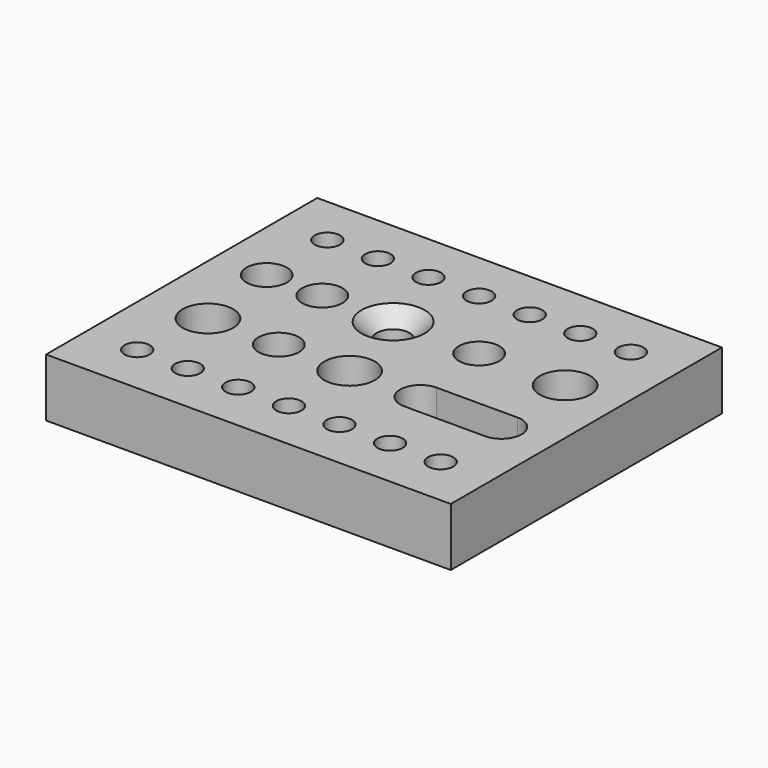
from build123d import *

# Parameters (mm, degrees)
F0_W     = 80
F0_H     = 67
F0_R     = 2.5
F0_R_2   = 5
F0_R_3   = 4
F0_R_4   = 3.25
F1_DEPTH = 11.5
F2_SIZE2 = 3
F2_SIZE  = 3
F3_R     = 5
F3_R_2   = 3.25
F4_DEPTH = 5.5


with BuildPart() as f1:
    # F0 (on Top) → F1 (new body)
    with BuildSketch(Plane.XY):
        with Locations((40, 33.5)):
            Rectangle(F0_W, F0_H)
        with Locations((10, 10)):
            Circle(F0_R, mode=Mode.SUBTRACT)
        with Locations((20, 10)):
            Circle(F0_R, mode=Mode.SUBTRACT)
        with Locations((30, 10)):
            Circle(F0_R, mode=Mode.SUBTRACT)
        with Locations((12, 25)):
            Circle(F0_R_2, mode=Mode.SUBTRACT)
        with Locations((26, 25)):
            Circle(F0_R_3, mode=Mode.SUBTRACT)
        with Locations((40, 10)):
            Circle(F0_R, mode=Mode.SUBTRACT)
        with Locations((50, 10)):
            Circle(F0_R, mode=Mode.SUBTRACT)
        with Locations((60, 10)):
            Circle(F0_R, mode=Mode.SUBTRACT)
        with Locations((70, 10)):
            Circle(F0_R, mode=Mode.SUBTRACT)
        with Locations((40, 25)):
            Circle(F0_R_2, mode=Mode.SUBTRACT)
        with BuildLine():
            Line((54, 29), (70, 29))
            ThreePointArc((70, 29), (74, 25), (70, 21))
            Line((70, 21), (54, 21))
            ThreePointArc((54, 21), (50, 25), (54, 29))
        make_face(mode=Mode.SUBTRACT)
        with Locations((10, 42)):
            Circle(F0_R_3, mode=Mode.SUBTRACT)
        with Locations((21, 42)):
            Circle(F0_R_3, mode=Mode.SUBTRACT)
        with Locations((35, 42)):
            Circle(F0_R_4, mode=Mode.SUBTRACT)
        with Locations((10, 57)):
            Circle(F0_R, mode=Mode.SUBTRACT)
        with Locations((20, 57)):
            Circle(F0_R, mode=Mode.SUBTRACT)
        with Locations((30, 57)):
            Circle(F0_R, mode=Mode.SUBTRACT)
        with Locations((52, 42)):
            Circle(F0_R_3, mode=Mode.SUBTRACT)
        with Locations((69, 42)):
            Circle(F0_R_2, mode=Mode.SUBTRACT)
        with Locations((40, 57)):
            Circle(F0_R, mode=Mode.SUBTRACT)
        with Locations((50, 57)):
            Circle(F0_R, mode=Mode.SUBTRACT)
        with Locations((60, 57)):
            Circle(F0_R, mode=Mode.SUBTRACT)
        with Locations((70, 57)):
            Circle(F0_R, mode=Mode.SUBTRACT)
    extrude(amount=F1_DEPTH)

    # F2
    f2_edges = [f1.edges().sort_by_distance(p)[0] for p in [
        (31.75, 42, 11.5),
    ]]
    chamfer(f2_edges, length=F2_SIZE, length2=F2_SIZE2)

    # F3 (on face) → F4 (join)
    with BuildSketch(Plane(origin=(0, 0, 0), x_dir=(1, 0, 0), z_dir=(0, 0, -1))):
        with Locations((40, -25)):
            Circle(F3_R)
        with Locations((40, -25)):
            Circle(F3_R_2, mode=Mode.SUBTRACT)
    extrude(amount=-F4_DEPTH)


solid = f1.part
